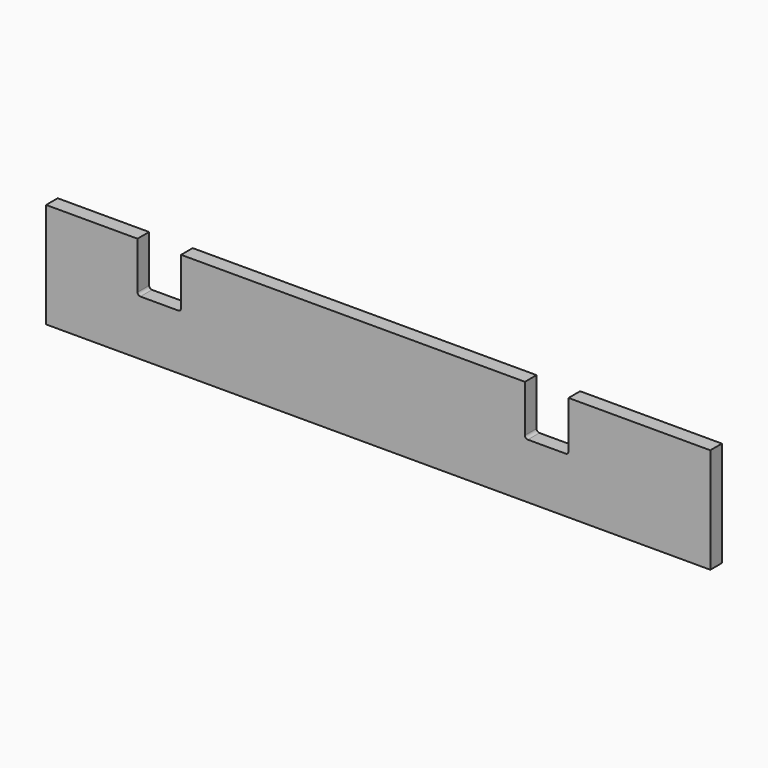
from build123d import *

# Parameters (mm, degrees)
F0_W     = 342.875
F0_H     = 15
F1_DEPTH = 54.3
F4_DEPTH = 15


with BuildPart() as f1:
    # F0 (on Top) → F1 (new body, symmetric)
    with BuildSketch(Plane.XY):
        with Locations((171.4375, 0)):
            Rectangle(F0_W, F0_H)
    extrude(amount=F1_DEPTH, both=True)

    # F2: F1 across face


with BuildPart() as f1_1:
    add(f1.part)
    add(f1.part.mirror(Plane(origin=(0, 0, 0), x_dir=(0, -1, 0), z_dir=(-1, 0, 0))))

    # F3 (on face) → F4 (cut, through all)
    with BuildSketch(Plane(origin=(0, 7.5, 0), x_dir=(-1, 0, 0), z_dir=(0, 1, 0))):
        with BuildLine():
            Line((-151.5, 54.3), (-196.5, 54.3))
            Line((-196.5, 54.3), (-196.5, 5.7))
            ThreePointArc((-196.5, 5.7), (-195.62132, 3.57868), (-193.5, 2.7))
            Line((-193.5, 2.7), (-154.5, 2.7))
            ThreePointArc((-154.5, 2.7), (-152.37868, 3.57868), (-151.5, 5.7))
            Line((-151.5, 5.7), (-151.5, 54.3))
        make_face()
        with BuildLine():
            Line((248.5, 54.3), (203.5, 54.3))
            Line((203.5, 54.3), (203.5, 5.7))
            ThreePointArc((203.5, 5.7), (204.37868, 3.57868), (206.5, 2.7))
            Line((206.5, 2.7), (245.5, 2.7))
            ThreePointArc((245.5, 2.7), (247.62132, 3.57868), (248.5, 5.7))
            Line((248.5, 5.7), (248.5, 54.3))
        make_face()
    extrude(amount=-F4_DEPTH, mode=Mode.SUBTRACT)


solid = f1_1.part
